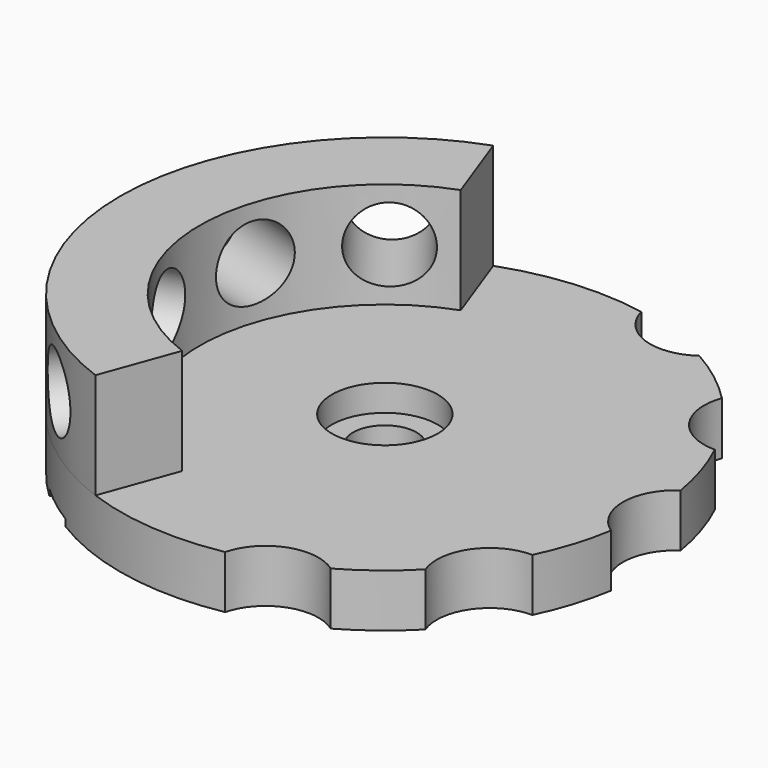
from build123d import *

# Parameters (mm, degrees)
BOX003_W                    = 4
BOX003_H                    = 4
BOX003_DEPTH                = 5
BOX003_PITCH_ANGLE          = 90
BOX003_PLACEMENT_ANGLE      = 17.5
BOX004_W                    = 4
BOX004_H                    = 4
BOX004_DEPTH                = 5
BOX004_PITCH_ANGLE          = 90
BOX004_PLACEMENT_ANGLE      = -17.5
BOX005_W                    = 4
BOX005_H                    = 4
BOX005_DEPTH                = 5
BOX005_PITCH_ANGLE          = 90
BOX005_PLACEMENT_ANGLE      = -52.5
BOX006_W                    = 4
BOX006_H                    = 4
BOX006_DEPTH                = 5
BOX006_PITCH_ANGLE          = 90
BOX006_PLACEMENT_ANGLE      = 52.5
CYLINDER004_R               = 2.8
CYLINDER004_DEPTH           = 10
CYLINDER004_PITCH_ANGLE     = 90
CYLINDER004_PLACEMENT_ANGLE = 17.5
CYLINDER005_R               = 2.8
CYLINDER005_DEPTH           = 10
CYLINDER005_PITCH_ANGLE     = 90
CYLINDER005_PLACEMENT_ANGLE = -17.5
CYLINDER006_R               = 2.8
CYLINDER006_DEPTH           = 10
CYLINDER006_PITCH_ANGLE     = 90
CYLINDER006_PLACEMENT_ANGLE = -52.5
CYLINDER007_R               = 2.8
CYLINDER007_DEPTH           = 10
CYLINDER007_PITCH_ANGLE     = 90
CYLINDER007_PLACEMENT_ANGLE = 52.5
SKETCH010_R                 = 20
PAD004_DEPTH                = 4
PAD005_DEPTH                = 8
SKETCH012_R                 = 4
POCKET006_DEPTH             = 2
SKETCH013_R                 = 2.4
POCKET007_DEPTH             = 2
SKETCH050_R                 = 4
POCKET023_DEPTH             = 5


with BuildPart() as box003:
    # Box003 → Box003 (new body)
    with BuildSketch(Plane.XY):
        with Locations((2, 2)):
            Rectangle(BOX003_W, BOX003_H)
    extrude(amount=BOX003_DEPTH)


with BuildPart() as box003_1:
    # Box003 pitch: moved
    add(box003.part.rotate(Axis((0, 0, 0), (0, 1, 0)), BOX003_PITCH_ANGLE))


with BuildPart() as box003_2:
    # Box003 placement: moved
    add(box003_1.part.moved(Location((16.5733556333, -8.2222556911, 18.5))).rotate(Axis((16.5733556333, -8.2222556911, 18.5), (0, 0, 1)), BOX003_PLACEMENT_ANGLE))


with BuildPart() as box004:
    # Box004 → Box004 (new body)
    with BuildSketch(Plane.XY):
        with Locations((2, 2)):
            Rectangle(BOX004_W, BOX004_H)
    extrude(amount=BOX004_DEPTH)


with BuildPart() as box004_1:
    # Box004 pitch: moved
    add(box004.part.rotate(Axis((0, 0, 0), (0, 1, 0)), BOX004_PITCH_ANGLE))


with BuildPart() as box004_2:
    # Box004 placement: moved
    add(box004_1.part.moved(Location((15.3705324353, 4.4073878881, 18.5))).rotate(Axis((15.3705324353, 4.4073878881, 18.5), (0, 0, 1)), BOX004_PLACEMENT_ANGLE))


with BuildPart() as box005:
    # Box005 → Box005 (new body)
    with BuildSketch(Plane.XY):
        with Locations((2, 2)):
            Rectangle(BOX005_W, BOX005_H)
    extrude(amount=BOX005_DEPTH)


with BuildPart() as box005_1:
    # Box005 pitch: moved
    add(box005.part.rotate(Axis((0, 0, 0), (0, 1, 0)), BOX005_PITCH_ANGLE))


with BuildPart() as box005_2:
    # Box005 placement: moved
    add(box005_1.part.moved(Location((21.6293033102, 15.4428972881, 18.5))).rotate(Axis((21.6293033102, 15.4428972881, 18.5), (0, 0, 1)), BOX005_PLACEMENT_ANGLE))


with BuildPart() as fusion:
    # Box006 → Box006 (new body)
    with BuildSketch(Plane.XY):
        with Locations((2, 2)):
            Rectangle(BOX006_W, BOX006_H)
    extrude(amount=BOX006_DEPTH)


with BuildPart() as fusion_1:
    # Box006 pitch: moved
    add(fusion.part.rotate(Axis((0, 0, 0), (0, 1, 0)), BOX006_PITCH_ANGLE))


with BuildPart() as fusion_2:
    # Box006 placement: moved
    add(fusion_1.part.moved(Location((24.8027166714, -17.8779430041, 18.5))).rotate(Axis((24.8027166714, -17.8779430041, 18.5), (0, 0, 1)), BOX006_PLACEMENT_ANGLE))

    # Fusion: union Box003, Box004, Box005
    add(box003_2.part)
    add(box004_2.part)
    add(box005_2.part)


with BuildPart() as cylinder004:
    # Cylinder004 → Cylinder004 (new body)
    with BuildSketch(Plane.XY):
        Circle(CYLINDER004_R)
    extrude(amount=CYLINDER004_DEPTH)


with BuildPart() as cylinder004_1:
    # Cylinder004 pitch: moved
    add(cylinder004.part.rotate(Axis((0, 0, 0), (0, 1, 0)), CYLINDER004_PITCH_ANGLE))


with BuildPart() as cylinder004_2:
    # Cylinder004 placement: moved
    add(cylinder004_1.part.moved(Location((15.9719440343, -6.3148217896, 26))).rotate(Axis((15.9719440343, -6.3148217896, 26), (0, 0, 1)), CYLINDER004_PLACEMENT_ANGLE))


with BuildPart() as cylinder005:
    # Cylinder005 → Cylinder005 (new body)
    with BuildSketch(Plane.XY):
        Circle(CYLINDER005_R)
    extrude(amount=CYLINDER005_DEPTH)


with BuildPart() as cylinder005_1:
    # Cylinder005 pitch: moved
    add(cylinder005.part.rotate(Axis((0, 0, 0), (0, 1, 0)), CYLINDER005_PITCH_ANGLE))


with BuildPart() as cylinder005_2:
    # Cylinder005 placement: moved
    add(cylinder005_1.part.moved(Location((15.9719440343, 6.3148217896, 26))).rotate(Axis((15.9719440343, 6.3148217896, 26), (0, 0, 1)), CYLINDER005_PLACEMENT_ANGLE))


with BuildPart() as cylinder006:
    # Cylinder006 → Cylinder006 (new body)
    with BuildSketch(Plane.XY):
        Circle(CYLINDER006_R)
    extrude(amount=CYLINDER006_DEPTH)


with BuildPart() as cylinder006_1:
    # Cylinder006 pitch: moved
    add(cylinder006.part.rotate(Axis((0, 0, 0), (0, 1, 0)), CYLINDER006_PITCH_ANGLE))


with BuildPart() as cylinder006_2:
    # Cylinder006 placement: moved
    add(cylinder006_1.part.moved(Location((23.2160099908, 16.6604201461, 26))).rotate(Axis((23.2160099908, 16.6604201461, 26), (0, 0, 1)), CYLINDER006_PLACEMENT_ANGLE))


with BuildPart() as fusion002:
    # Cylinder007 → Cylinder007 (new body)
    with BuildSketch(Plane.XY):
        Circle(CYLINDER007_R)
    extrude(amount=CYLINDER007_DEPTH)


with BuildPart() as fusion002_1:
    # Cylinder007 pitch: moved
    add(fusion002.part.rotate(Axis((0, 0, 0), (0, 1, 0)), CYLINDER007_PITCH_ANGLE))


with BuildPart() as fusion002_2:
    # Cylinder007 placement: moved
    add(fusion002_1.part.moved(Location((23.2160099908, -16.6604201461, 26))).rotate(Axis((23.2160099908, -16.6604201461, 26), (0, 0, 1)), CYLINDER007_PLACEMENT_ANGLE))

    # Fusion001: union Cylinder004, Cylinder005, Cylinder006
    add(cylinder004_2.part)
    add(cylinder005_2.part)
    add(cylinder006_2.part)


with BuildPart() as cut001:
    # Sketch010 (on Face1 of CopyPocket005) → Pad004 (new body)
    with BuildSketch(Plane.XY.offset(18)):
        with Locations((36, 0)):
            Circle(SKETCH010_R)
    extrude(amount=PAD004_DEPTH)

    # Sketch011 (on Face3 of Pad004) → Pad005 (join)
    with BuildSketch(Plane.XY.offset(22)):
        with BuildLine():
            ThreePointArc((29.1595971335, 18.7938524157), (16, 0), (29.1595971335, -18.7938524157))
            Line((31.2117179934, -13.155696691), (29.1595971335, -18.7938524157))
            ThreePointArc((31.2117179934, 13.155696691), (22, 0), (31.2117179934, -13.155696691))
            Line((31.2117179934, 13.155696691), (29.1595971335, 18.7938524157))
        make_face()
    extrude(amount=PAD005_DEPTH)

    # Sketch012 (on Face3 of Pad005) → Pocket006 (cut)
    with BuildSketch(Plane.XY.offset(22)):
        with Locations((36, 0)):
            Circle(SKETCH012_R)
    extrude(amount=-POCKET006_DEPTH, mode=Mode.SUBTRACT)

    # Sketch013 (on Face10 of Pocket006) → Pocket007 (cut)
    with BuildSketch(Plane.XY.offset(20)):
        with Locations((36, 0)):
            Circle(SKETCH013_R)
    extrude(amount=-POCKET007_DEPTH, mode=Mode.SUBTRACT)

    # Sketch050 (on Face4 of Pocket007) → Pocket023 (cut)
    with BuildSketch(Plane.XY.offset(22)):
        with Locations((43.5244431532, 20.6732376573)):
            Circle(SKETCH050_R)
        with Locations((54.0213449744, 12.6186815997)):
            Circle(SKETCH050_R)
        with Locations((58, 0)):
            Circle(SKETCH050_R)
        with Locations((54.0213449744, -12.6186815997)):
            Circle(SKETCH050_R)
        with Locations((43.5244431532, -20.6732376573)):
            Circle(SKETCH050_R)
    extrude(amount=-POCKET023_DEPTH, mode=Mode.SUBTRACT)

    # Cut: cut Fusion002
    add(fusion002_2.part, mode=Mode.SUBTRACT)

    # Cut001: cut Fusion
    add(fusion_2.part, mode=Mode.SUBTRACT)


solid = cut001.part
